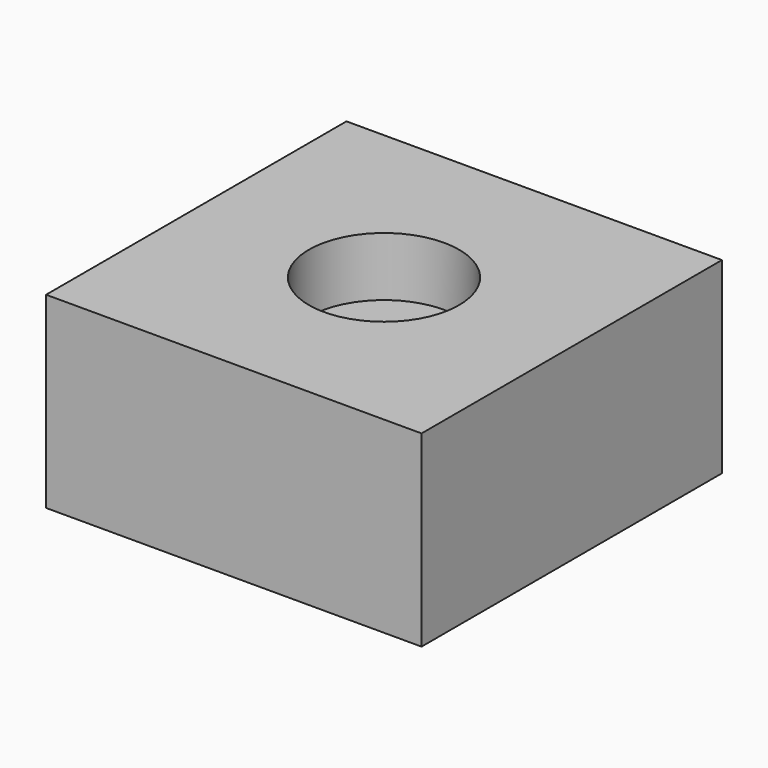
from build123d import *

# Parameters (mm, degrees)
F0_W     = 100
F0_H     = 100
F1_DEPTH = 50


with BuildPart() as f1:
    # F0 (on Top) → F1 (new body)
    with BuildSketch(Plane.XY):
        Rectangle(F0_W, F0_H)
    extrude(amount=-F1_DEPTH)

    # F2 (on Right) → F3 (revolve, cut)
    with BuildSketch(Plane.YZ):
        Polygon((20, 0), (0, 0), (0, -50), (5, -50), (5, -35.036158), (10, -35.036158), (10, -15.728306), (20, -15.728306), align=None)
    revolve(axis=Axis((0, 0, 12.636881), (0, 0, -1)), mode=Mode.SUBTRACT)


solid = f1.part
